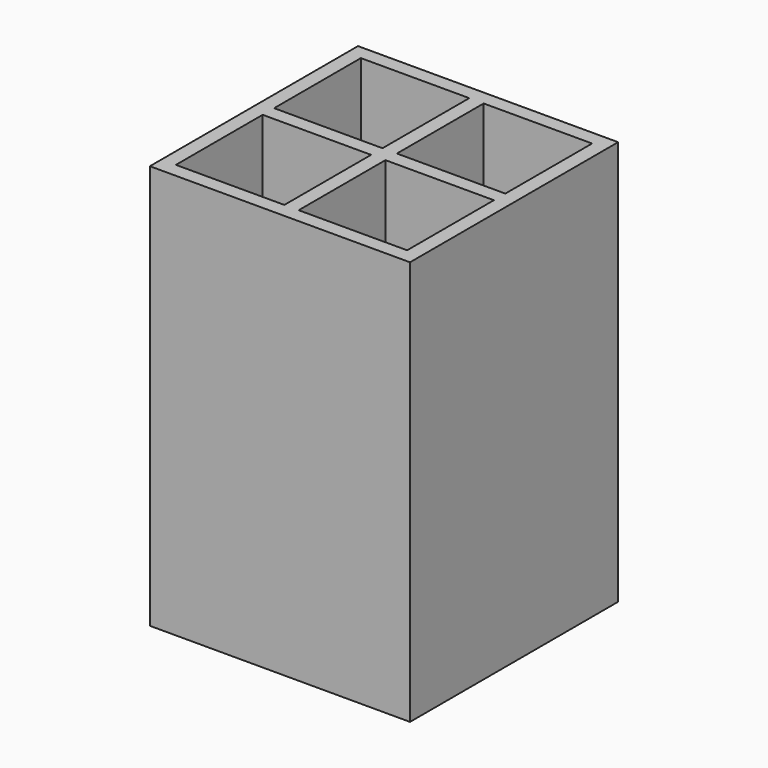
from build123d import *

# Parameters (mm, degrees)
F0_W     = 57.15
F0_H     = 88.9
F1_DEPTH = 57.15
F2_W     = 23.8125
F2_H     = 23.8252
F3_DEPTH = 85.725
F4_W     = 23.8252
F4_H     = 23.8252
F5_DEPTH = 85.725
F6_W     = 23.8252
F6_H     = 23.8252
F7_DEPTH = 85.725


with BuildPart() as f1:
    # F0 (on Front) → F1 (new body)
    with BuildSketch(Plane.XZ):
        with Locations((0, -2.320218)):
            Rectangle(F0_W, F0_H)
    extrude(amount=F1_DEPTH)

    # F2 (on face) → F3 (cut)
    with BuildSketch(Plane.XY.offset(42.129782)):
        with Locations((-13.49375, -15.0876)):
            Rectangle(F2_W, F2_H)
    extrude(amount=-F3_DEPTH, mode=Mode.SUBTRACT)

    # F4 (on face) → F5 (cut)
    with BuildSketch(Plane.XY.offset(42.129782)):
        with Locations((13.4874, -15.0876)):
            Rectangle(F4_W, F4_H)
    extrude(amount=-F5_DEPTH, mode=Mode.SUBTRACT)

    # F6 (on face) → F7 (cut)
    with BuildSketch(Plane.XY.offset(42.129782)):
        with Locations((-13.4874, -42.0624)):
            Rectangle(F6_W, F6_H)
        with Locations((13.4874, -42.0624)):
            Rectangle(F6_W, F6_H)
    extrude(amount=-F7_DEPTH, mode=Mode.SUBTRACT)


solid = f1.part
